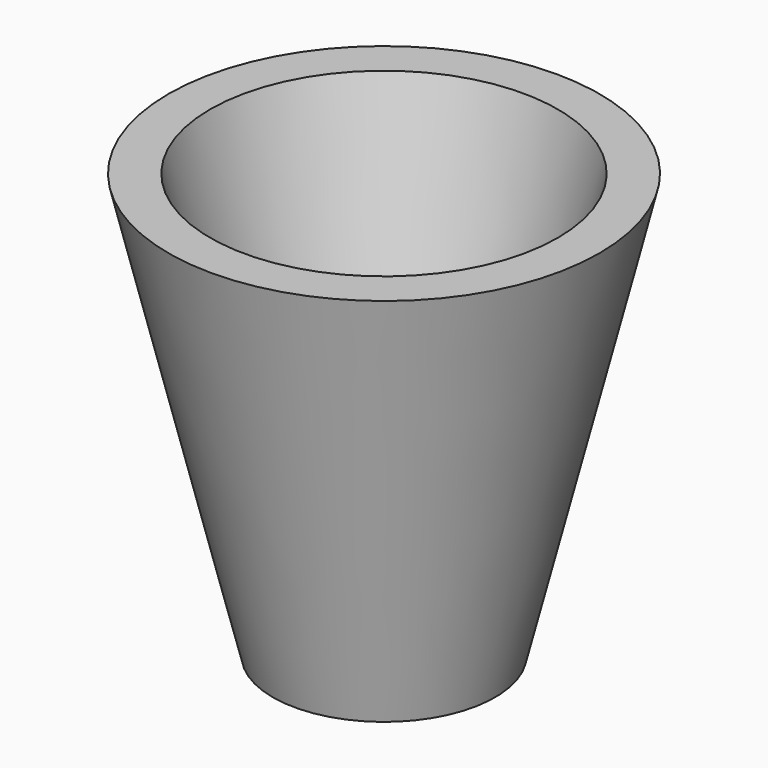
from build123d import *

# Parameters (mm, degrees)
F3_R     = 8
F4_DEPTH = 25


with BuildPart() as f2:
    # F1 (on Front) → F2 (revolve)
    with BuildSketch(Plane.XZ):
        Polygon((-55, 0), (0, 0), (0, 25), (-40.543904, 25), (-85.964048, 210), (-106.558001, 210), align=None)
    revolve(axis=Axis((0, 0, 105), (0, 0, 1)))

    # F3 (on face) → F4 (cut)
    with BuildSketch(Plane(origin=(0, 0, 0), x_dir=(1, 0, 0), z_dir=(0, 0, -1))):
        Circle(F3_R)
    extrude(amount=-F4_DEPTH, mode=Mode.SUBTRACT)


solid = f2.part
